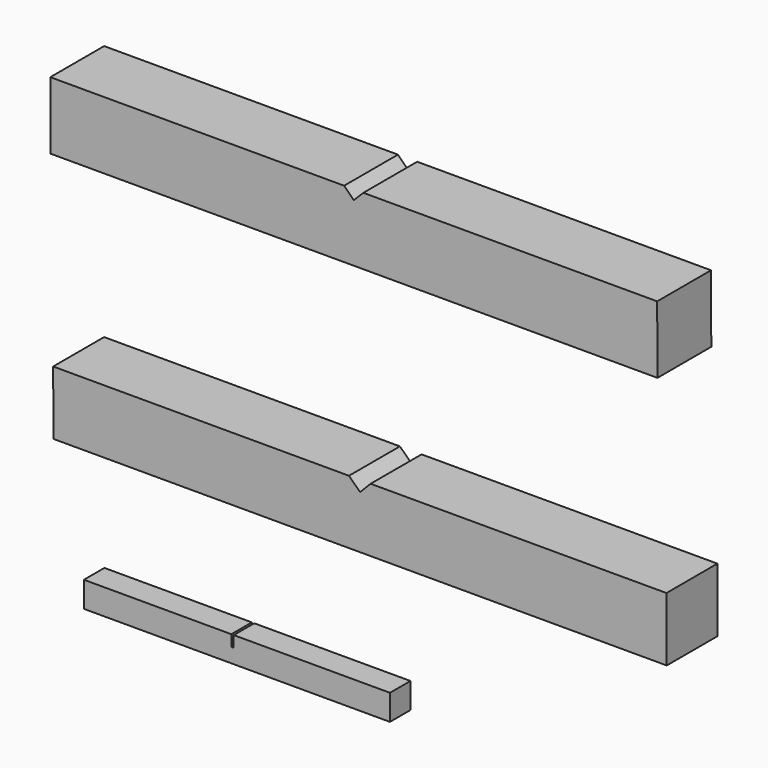
from build123d import *

# Parameters (mm, degrees)
F1_DEPTH = 3.2
F3_DEPTH = 7.95
F5_DEPTH = 8.4


with BuildPart() as f1:
    # F0 (on Front) → F1 (new body)
    with BuildSketch(Plane.XZ):
        Polygon((0, 3.2), (0, 0), (38.2, 0), (38.2, 3.2), (18.7, 3.2), (18.7, 1.8), (18.4, 1.8), (18.4, 3.2), align=None)
    extrude(amount=F1_DEPTH)


with BuildPart() as f3:
    # F2 (on Front) → F3 (new body)
    with BuildSketch(Plane.XZ):
        Polygon((-0.038534, 28.55267), (0, 20.602763), (76.55, 20.602763), (76.511466, 28.55267), (39.586922, 28.55267), (38.275, 27.202763), (36.886009, 28.55267), align=None)
    extrude(amount=F3_DEPTH)


with BuildPart() as f5:
    # F4 (on Front) → F5 (new body)
    with BuildSketch(Plane.XZ):
        Polygon((-0.034754, 60.52913), (0, 52.129202), (75.75, 52.129202), (75.715246, 60.52913), (39.040246, 60.52913), (37.845211, 59.32914), (36.640246, 60.52913), align=None)
    extrude(amount=F5_DEPTH)


solid = Compound([f1.part, f3.part, f5.part])
